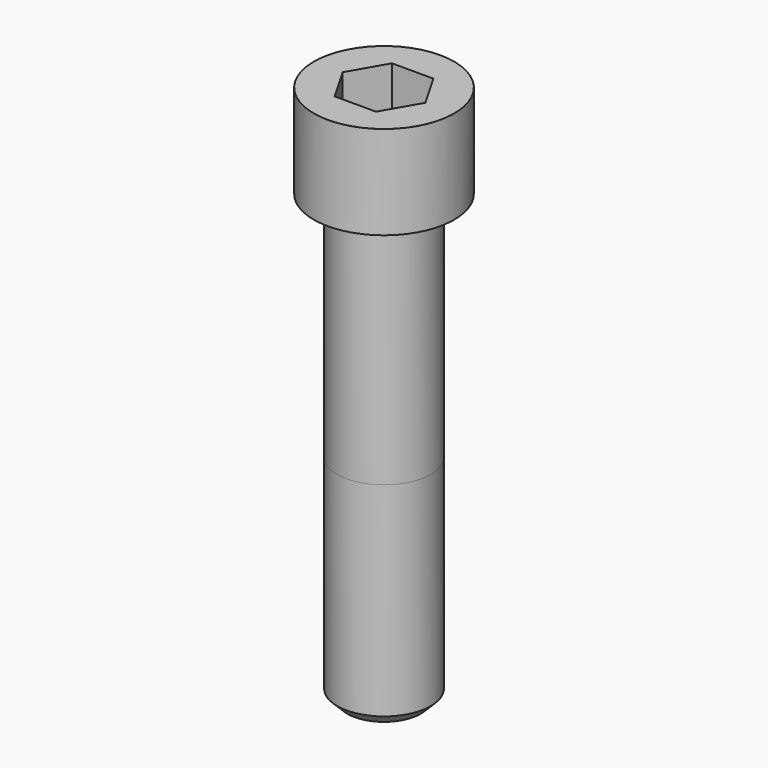
from build123d import *

# Parameters (mm, degrees)
POCKET_DEPTH = 32.15


with BuildPart() as part:
    # Sketch → Revolve (revolve)
    with BuildSketch(Plane.YZ):
        with BuildLine():
            Line((20.999, 0), (31.5, 0))
            Line((31.5, 0), (31.5, 41.97229))
            ThreePointArc((31.5, 41.97229), (31.491884, 41.991884), (31.47229, 42))
            Line((31.47229, 42), (0, 42))
            Line((0, -200), (0, 42))
            Line((16.5, -200), (0, -200))
            Line((21, -195.5), (16.5, -200))
            Line((21, -104), (21, -195.5))
            Line((20.999, 0), (21, -104))
        make_face()
    revolve(axis=Axis((0, 0, 0), (0, 0, 1)))

    # Sketch001 → Pocket (cut)
    with BuildSketch(Plane.XY.offset(42)):
        Polygon((18.561811, 0), (9.280906, 16.075), (-9.280906, 16.075), (-18.561811, 0), (-9.280906, -16.075), (9.280906, -16.075), align=None)
    extrude(amount=-POCKET_DEPTH, mode=Mode.SUBTRACT)


solid = part.part
